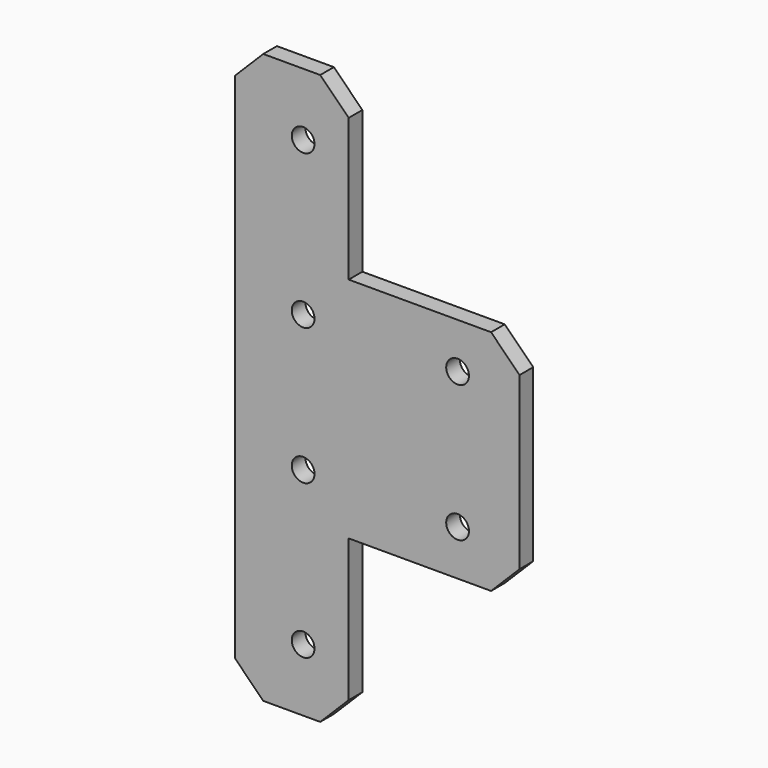
from build123d import *

# Parameters (mm, degrees)
F0_R     = 2
F1_DEPTH = 3
F3_SIZE  = 5


with BuildPart() as f1:
    # F0 (on Front) → F1 (new body)
    with BuildSketch(Plane.XZ):
        Polygon((-35.7739527003, 50), (-55.7739527003, 50), (-55.7739527003, 0), (-5.7739527003, 0), (-5.7739527003, 20), (-35.7739527003, 20), align=None)
        with Locations((-43.7739527003, 12)):
            Circle(F0_R, mode=Mode.SUBTRACT)
        with Locations((-16.6526697576, 12)):
            Circle(F0_R, mode=Mode.SUBTRACT)
        with Locations((-43.7739527003, 38.9910824597)):
            Circle(F0_R, mode=Mode.SUBTRACT)
    extrude(amount=F1_DEPTH)

    # F2: F1 across face


with BuildPart() as f1_1:
    add(f1.part)
    add(f1.part.mirror(Plane(origin=(-30.7739527003, -1.5, 0), x_dir=(1, 0, 0), z_dir=(0, 0, -1))))

    # F3
    f3_edges = [f1_1.edges().sort_by_distance(p)[0] for p in [
        (-5.773953, -1.5, 20),
        (-5.773953, -1.5, -20),
        (-35.773953, -1.5, 50),
        (-35.773953, -1.5, -50),
        (-55.773953, -1.5, 50),
        (-55.773953, -1.5, -50),
    ]]
    chamfer(f3_edges, length=F3_SIZE)


solid = f1_1.part
